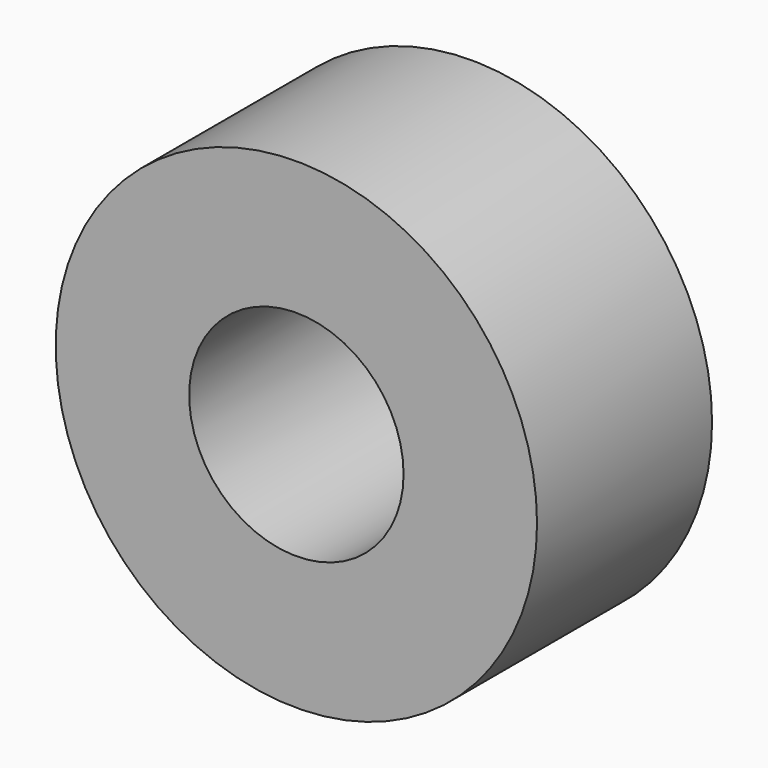
from build123d import *

# Parameters (mm, degrees)
SKETCH_R   = 5.5
SKETCH_R_2 = 2.45
PAD_DEPTH  = 5


with BuildPart() as part:
    # Sketch (on XZ_Plane of Origin) → Pad (new body)
    with BuildSketch(Plane.XZ):
        Circle(SKETCH_R)
        Circle(SKETCH_R_2, mode=Mode.SUBTRACT)
    extrude(amount=PAD_DEPTH)


solid = part.part
